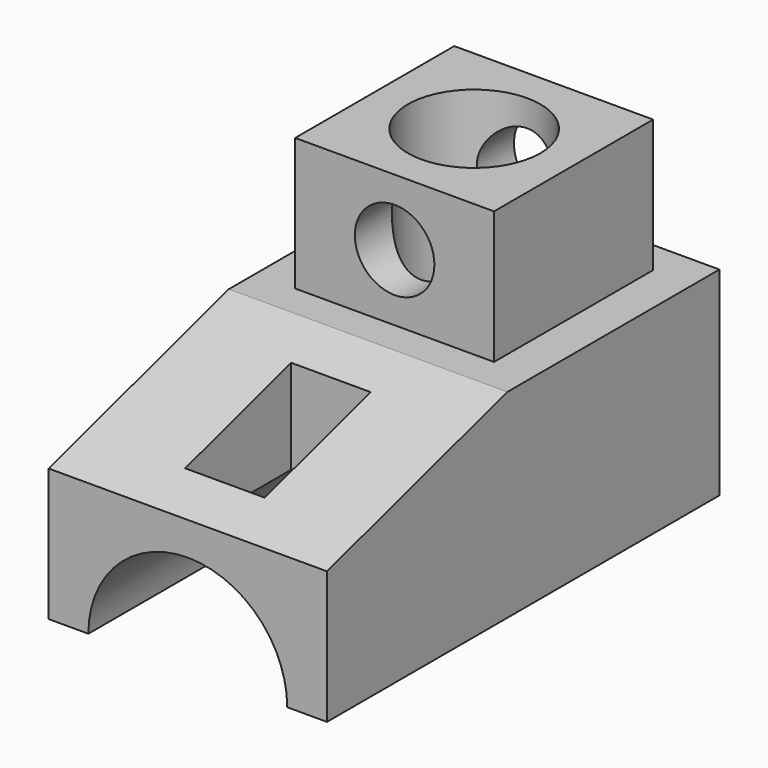
from build123d import *

# Parameters (mm, degrees)
F0_W      = 74
F0_H      = 30
F1_DEPTH  = 21
F2_SIZE2  = 34
F2_SIZE   = 10
F3_W      = 30
F3_H      = 30
F4_DEPTH  = 20
F5_R      = 10
F6_DEPTH  = 50.001
F7_R      = 6
F8_DEPTH  = 35.001
F10_W     = 12
F10_H     = 20
F11_DEPTH = 30.0010001
F9_R      = 15
F12_DEPTH = 74.001


with BuildPart() as f1:
    # F0 (on Right) → F1 (new body, symmetric)
    with BuildSketch(Plane.YZ):
        Rectangle(F0_W, F0_H)
    extrude(amount=F1_DEPTH, both=True)

    # F2
    f2_edges = [f1.edges().sort_by_distance(p)[0] for p in [
        (0, -37, 15),
    ]]
    f2_side = f1.faces().sort_by_distance((0, -37, 0))[0]
    chamfer(f2_edges, length=F2_SIZE, length2=F2_SIZE2, reference=f2_side)

    # F3 (on face) → F4 (join)
    with BuildSketch(Plane.XY.offset(15)):
        with Locations((0, 17)):
            Rectangle(F3_W, F3_H)
    extrude(amount=F4_DEPTH)

    # F5 (on face) → F6 (cut, through all)
    with BuildSketch(Plane.XY.offset(35)):
        with Locations((0, 17)):
            Circle(F5_R)
    extrude(amount=-F6_DEPTH, mode=Mode.SUBTRACT)

    # F7 (on face) → F8 (cut, through all)
    with BuildSketch(Plane.XZ.offset(-2)):
        with Locations((0, 25)):
            Circle(F7_R)
    extrude(amount=-F8_DEPTH, mode=Mode.SUBTRACT)

    # F10 (on face) → F11 (cut, through all)
    with BuildSketch(Plane.XY.offset(15)):
        with Locations((0, -20)):
            Rectangle(F10_W, F10_H)
    extrude(amount=-F11_DEPTH, mode=Mode.SUBTRACT)

    # F9 (on face) → F12 (cut, through all)
    with BuildSketch(Plane.XZ.offset(37)):
        with Locations((0, -15)):
            Circle(F9_R)
    extrude(amount=-F12_DEPTH, mode=Mode.SUBTRACT)


solid = f1.part
